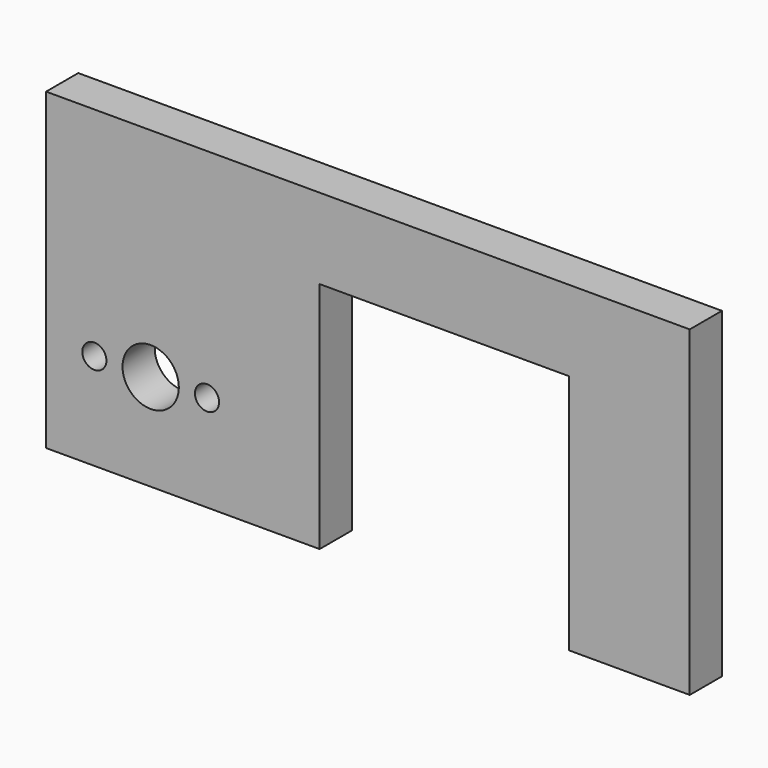
from build123d import *

# Parameters (mm, degrees)
F0_W      = 36
F0_H      = 24
F1_DEPTH  = 21.5
F3_DEPTH  = 4
F4_R      = 1.5
F5_DEPTH  = 6
F6_W      = 2
F6_H      = 22
F6_R      = 1.75
F7_DEPTH  = 26.001
F8_R      = 3.5
F9_DEPTH  = 15
F10_R     = 1.5
F11_DEPTH = 6
F12_R     = 1.5
F13_DEPTH = 6
F15_DEPTH = 24.001
F16_W     = 2
F16_H     = 5
F17_DEPTH = 25
F18_W     = 34
F18_H     = 5
F19_DEPTH = 25
F20_W     = 80
F20_H     = 20
F21_DEPTH = 5
F22_W     = 15
F22_H     = 5
F23_DEPTH = 30
F24_W     = 80
F24_H     = 10
F25_DEPTH = 5.001


with BuildPart() as f1:
    # F0 (on Front) → F1 (new body)
    with BuildSketch(Plane.XZ):
        Rectangle(F0_W, F0_H)
    extrude(amount=F1_DEPTH)

    # F2 (on face) → F3 (join)
    with BuildSketch(Plane(origin=(-18, 0, 0), x_dir=(0, -1, 0), z_dir=(-1, 0, 0))):
        Polygon((0, -4), (0, 4), (-4.5, 4), (-4.5, 1.127949), (-3.5, 0.86), (-2.3, 0.86), (-2.3, -0.86), (-3.5, -0.86), (-4.5, -1.127949), (-4.5, -4), align=None)
    extrude(amount=-F3_DEPTH)

    # F4 (on face) → F5 (cut)
    with BuildSketch(Plane.XZ.offset(21.5)):
        with Locations((-12, 0)):
            Circle(F4_R)
        with Locations((2, 0)):
            Circle(F4_R)
    extrude(amount=-F5_DEPTH, mode=Mode.SUBTRACT)

    # F6 (on face) → F7 (cut, through all)
    with BuildSketch(Plane.XZ.offset(21.5)):
        with Locations((17, 1)):
            Rectangle(F6_W, F6_H)
        with Locations((-5, 0)):
            Circle(F6_R)
    extrude(amount=-F7_DEPTH, mode=Mode.SUBTRACT)

    # F8 (on face) → F9 (cut)
    with BuildSketch(Plane.XZ.offset(21.5)):
        with Locations((-5, 0)):
            Circle(F8_R)
    extrude(amount=-F9_DEPTH, mode=Mode.SUBTRACT)

    # F10 (on face) → F11 (cut)
    with BuildSketch(Plane(origin=(0, 0, -12), x_dir=(1, 0, 0), z_dir=(0, 0, -1))):
        with Locations((12, 9.5)):
            Circle(F10_R)
    extrude(amount=-F11_DEPTH, mode=Mode.SUBTRACT)

    # F12 (on face) → F13 (cut)
    with BuildSketch(Plane(origin=(0, 0, 0), x_dir=(-1, 0, 0), z_dir=(0, 1, 0))):
        with Locations((-12, 0)):
            Circle(F12_R)
    extrude(amount=-F13_DEPTH, mode=Mode.SUBTRACT)

    # F14 (on face) → F15 (cut, through all)
    with BuildSketch(Plane.XY.offset(12)):
        Polygon((-18, 4.5), (-18, -16.5), (18, -16.5), (18, 0), (16, 0), (-14, 0), (-14, 4.5), align=None)
    extrude(amount=-F15_DEPTH, mode=Mode.SUBTRACT)

    # F16 (on face) → F17 (cut)
    with BuildSketch(Plane.XY.offset(-10)):
        with Locations((17, -19)):
            Rectangle(F16_W, F16_H)
    extrude(amount=-F17_DEPTH, mode=Mode.SUBTRACT)

    # F18 (on face) → F19 (join)
    with BuildSketch(Plane.XY.offset(12)):
        with Locations((-1, -19)):
            Rectangle(F18_W, F18_H)
    extrude(amount=F19_DEPTH)

    # F20 (on face) → F21 (join)
    with BuildSketch(Plane.XZ.offset(21.5)):
        with Locations((22, 27)):
            Rectangle(F20_W, F20_H)
    extrude(amount=-F21_DEPTH)

    # F22 (on face) → F23 (join)
    with BuildSketch(Plane(origin=(0, 0, 17), x_dir=(1, 0, 0), z_dir=(0, 0, -1))):
        with Locations((54.5, 19)):
            Rectangle(F22_W, F22_H)
    extrude(amount=F23_DEPTH)

    # F24 (on face) → F25 (cut, through all)
    with BuildSketch(Plane.XZ.offset(21.5)):
        with Locations((22, 32)):
            Rectangle(F24_W, F24_H)
    extrude(amount=-F25_DEPTH, mode=Mode.SUBTRACT)


solid = f1.part
